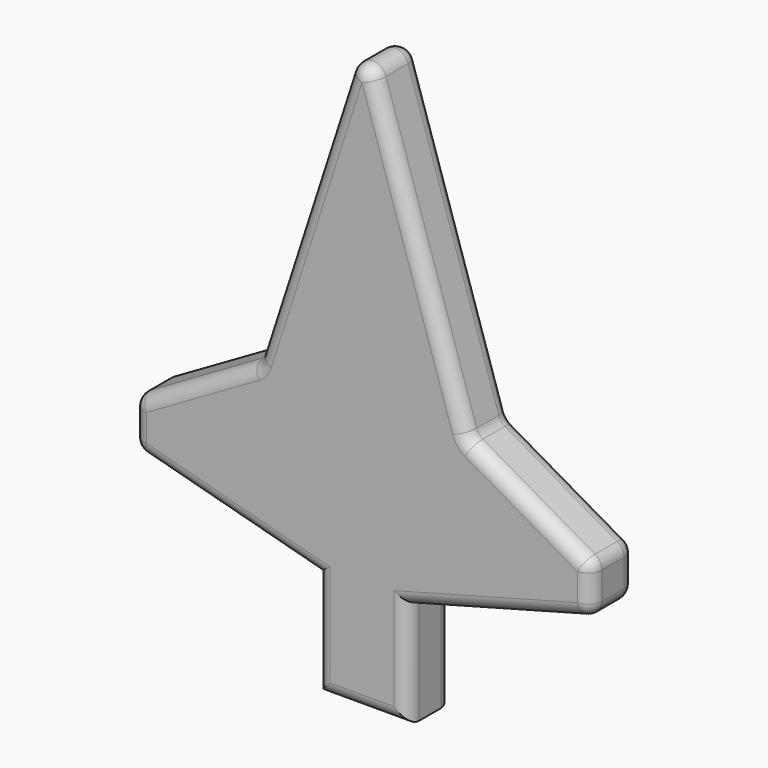
from build123d import *

# Parameters (mm, degrees)
F1_DEPTH = 3.048
F2_R     = 0.762


with BuildPart() as f1:
    # F0 (on Front) → F1 (new body)
    with BuildSketch(Plane.XZ):
        Polygon((0, 31.242), (-5.842, 13.187891), (-12.7, 9.228423), (-12.7, 6.688423), (-2.54, 3.966059), (-2.54, -1.875941), (2.54, -1.875941), (2.54, 3.966059), (12.7, 6.688423), (12.7, 9.228423), (5.842, 13.187891), align=None)
    extrude(amount=F1_DEPTH)

    # F2
    f2_edges = [f1.edges().sort_by_distance(p)[0] for p in [
        (0, -1.524, 31.242),
        (5.842, -1.524, 13.187891),
        (12.7, -1.524, 9.228423),
        (12.7, -1.524, 6.688423),
        (-5.842, -1.524, 13.187891),
        (-12.7, -1.524, 9.228423),
        (-12.7, -1.524, 6.688423),
        (2.54, 0, 1.045059),
        (2.54, -3.048, 1.045059),
        (-2.54, -3.048, 1.045059),
        (-2.54, 0, 1.045059),
        (2.921, -3.048, 22.214946),
        (-2.921, -3.048, 22.214946),
        (-9.271, -3.048, 11.208157),
        (-12.7, -3.048, 7.958423),
        (-7.62, -3.048, 5.327241),
        (0, -3.048, -1.875941),
        (7.62, -3.048, 5.327241),
        (12.7, -3.048, 7.958423),
        (9.271, -3.048, 11.208157),
        (2.921, 0, 22.214946),
        (-2.921, 0, 22.214946),
        (-9.271, 0, 11.208157),
        (-12.7, 0, 7.958423),
        (-7.62, 0, 5.327241),
        (0, 0, -1.875941),
        (7.62, 0, 5.327241),
        (12.7, 0, 7.958423),
        (9.271, 0, 11.208157),
    ]]
    fillet(f2_edges, radius=F2_R)


solid = f1.part
